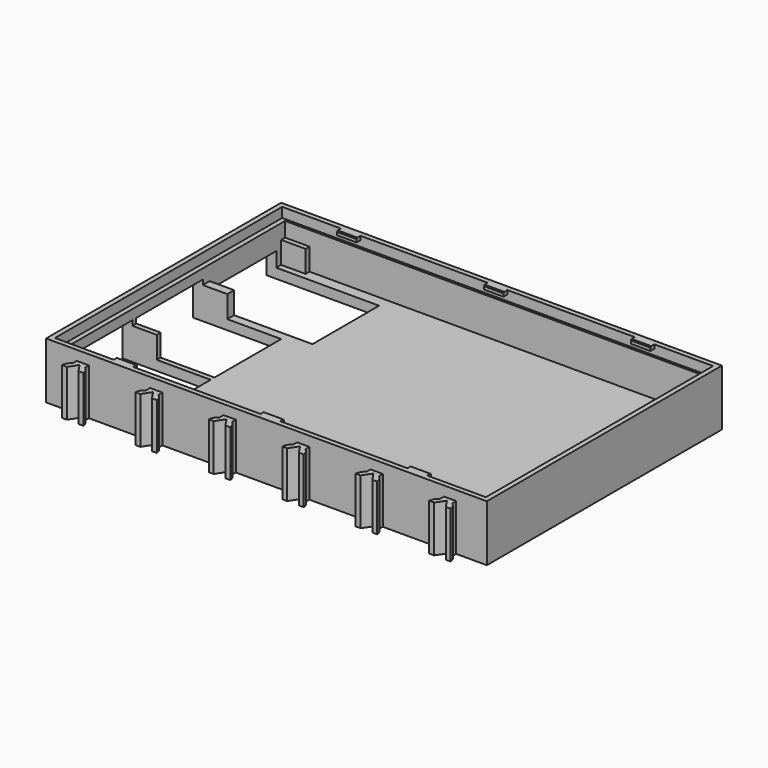
from build123d import *

# Parameters (mm, degrees)
SKETCH_W            = 35
SKETCH_H            = 6
PAD_DEPTH           = 2
SKETCH001_W         = 2
SKETCH001_H         = 1.75
SKETCH001_H_2       = 1
PAD001_DEPTH        = 9.5
SKETCH002_W         = 17
SKETCH002_H         = 6.5
SKETCH002_H_2       = 4
PAD002_DEPTH        = 2
SKETCH003_W         = 5
SKETCH003_H         = 1
SKETCH003_H_2       = 1.75
SKETCH003_H_3       = 2
PAD003_DEPTH        = 4.5
SKETCH004_W         = 88
SKETCH004_H         = 58
POCKET_DEPTH        = 2
SKETCH005_W         = 4
SKETCH005_H         = 0.8
PAD004_DEPTH        = 1
SKETCH006_W         = 4
SKETCH006_H         = 0.8
PAD005_DEPTH        = 1
PAD006_DEPTH        = 9.5
LINEARPATTERN_COUNT = 6
LINEARPATTERN_PITCH = 15
CHAMFER_SIZE        = 0.2


with BuildPart() as part:
    # Sketch → Pad (new body)
    with BuildSketch(Plane.XY):
        Polygon((-45, 30), (-45, 26.25), (-22, 26.25), (-22, 9.25), (-45, 9.25), (-45, 7.5), (-27, 7.5), (-27, -9.5), (-45, -9.5), (-45, -10.5), (-27, -10.5), (-27, -27.5), (-45, -27.5), (-45, -30), (45, -30), (45, 30), align=None)
        with Locations((18.89, -24.5)):
            Rectangle(SKETCH_W, SKETCH_H, mode=Mode.SUBTRACT)
    extrude(amount=PAD_DEPTH)

    # Sketch001 → Pad001 (new body)
    with BuildSketch(Plane.XY.offset(2)):
        with Locations((-44, 8.375)):
            Rectangle(SKETCH001_W, SKETCH001_H)
        with Locations((-44, -10)):
            Rectangle(SKETCH001_W, SKETCH001_H_2)
        Polygon((-45, -27.5), (-43, -27.5), (-43, -28.5), (43, -28.5), (43, 28.5), (-43, 28.5), (-43, 26.25), (-45, 26.25), (-45, 30), (45, 30), (45, -30), (-45, -30), align=None)
    extrude(amount=PAD001_DEPTH)

    # Sketch002 → Pad002 (new body)
    with BuildSketch(Plane(origin=(-45, 0, 0), x_dir=(0, -1, 0), z_dir=(-1, 0, 0))):
        with Locations((-17.75, 8.25)):
            Rectangle(SKETCH002_W, SKETCH002_H)
        with Locations((1, 9.5)):
            Rectangle(SKETCH002_W, SKETCH002_H_2)
        with Locations((19, 9.5)):
            Rectangle(SKETCH002_W, SKETCH002_H_2)
    extrude(amount=-PAD002_DEPTH)

    # Sketch003 → Pad003 (new body)
    with BuildSketch(Plane.XY.offset(2)):
        with Locations((-40.5, 28)):
            Rectangle(SKETCH003_W, SKETCH003_H)
        with Locations((-40.5, 8.375)):
            Rectangle(SKETCH003_W, SKETCH003_H_2)
        with Locations((-40.5, -10)):
            Rectangle(SKETCH003_W, SKETCH003_H)
        with Locations((-40.5, -28)):
            Rectangle(SKETCH003_W, SKETCH003_H)
        with Locations((40.5, -27.5)):
            Rectangle(SKETCH003_W, SKETCH003_H_3)
        with Locations((40.5, 27.5)):
            Rectangle(SKETCH003_W, SKETCH003_H_3)
    extrude(amount=PAD003_DEPTH)

    # Sketch004 → Pocket (cut)
    with BuildSketch(Plane.XY.offset(11.5)):
        Rectangle(SKETCH004_W, SKETCH004_H)
    extrude(amount=-POCKET_DEPTH, mode=Mode.SUBTRACT)

    # Sketch005 → Pad004 (new body)
    with BuildSketch(Plane.XZ.offset(-29)):
        with Locations((-30, 11.1)):
            Rectangle(SKETCH005_W, SKETCH005_H)
        with Locations((0, 11.1)):
            Rectangle(SKETCH005_W, SKETCH005_H)
        with Locations((30, 11.1)):
            Rectangle(SKETCH005_W, SKETCH005_H)
    extrude(amount=PAD004_DEPTH)

    # Sketch006 → Pad005 (new body)
    with BuildSketch(Plane(origin=(0, -29, 0), x_dir=(-1, 0, 0), z_dir=(0, 1, 0))):
        with Locations((-30, 11.1)):
            Rectangle(SKETCH006_W, SKETCH006_H)
        with Locations((0, 11.1)):
            Rectangle(SKETCH006_W, SKETCH006_H)
        with Locations((30, 11.1)):
            Rectangle(SKETCH006_W, SKETCH006_H)
    extrude(amount=PAD005_DEPTH)

    # Sketch007 → Pad006 (new body)
    with BuildSketch(Plane(origin=(0, 0, 0), x_dir=(1, 0, 0), z_dir=(0, 0, -1))):
        with BuildLine():
            Line((36.25, 31), (36.25, 30))
            Line((36.25, 30), (38.75, 30))
            Line((38.75, 30), (38.75, 31))
            ThreePointArc((38.75, 31), (39.396907, 31.696052), (39.689917, 32.6))
            Line((38.689917, 32.6), (39.689917, 32.6))
            Line((37.5, 30.810387), (38.689917, 32.6))
            Line((36.310083, 32.6), (37.5, 30.810387))
            Line((35.310083, 32.6), (36.310083, 32.6))
            ThreePointArc((35.310083, 32.6), (35.603093, 31.696052), (36.25, 31))
        make_face()
        with BuildLine():
            Line((36.25, -30), (36.25, -31))
            ThreePointArc((36.25, -31), (35.603093, -31.696052), (35.310083, -32.6))
            Line((35.310083, -32.6), (36.310083, -32.6))
            Line((37.5, -30.6), (36.310083, -32.6))
            Line((38.689917, -32.6), (37.5, -30.6))
            Line((39.689917, -32.6), (38.689917, -32.6))
            ThreePointArc((39.689917, -32.6), (39.396907, -31.696052), (38.75, -31))
            Line((38.75, -30), (38.75, -31))
            Line((36.25, -30), (38.75, -30))
        make_face()
    pad006 = extrude(amount=-PAD006_DEPTH)

    # LinearPattern: Pad006 ×6
    with Locations(*[(-i * LINEARPATTERN_PITCH, 0, 0) for i in range(1, LINEARPATTERN_COUNT)]):
        add(pad006)

    # Chamfer
    chamfer_edges = [part.edges().sort_by_distance(p)[0] for p in [
        (0, 28, 11.5),
        (-30, 28, 11.5),
        (30, 28, 11.5),
        (-30, -28, 11.5),
        (0, -28, 11.5),
        (30, -28, 11.5),
    ]]
    chamfer(chamfer_edges, length=CHAMFER_SIZE)


solid = part.part
